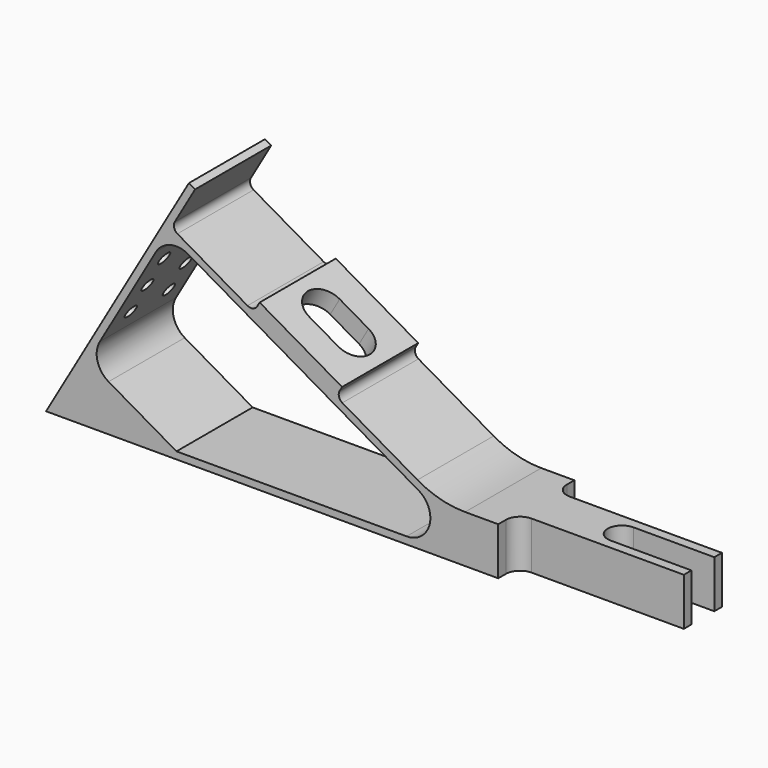
from build123d import *

# Parameters (mm, degrees)
F1_DEPTH  = 20
F3_DEPTH  = 4
F5_DEPTH  = 10.001
F6_R      = 4.25
F6_R_2    = 1.395
F7_DEPTH  = 20.3525969889
F8_R      = 5.5
F9_DEPTH  = 2
F10_DEPTH = 10.001


with BuildPart() as f1:
    # F0 (on Front) → F1 (new body)
    with BuildSketch(Plane.XZ):
        with BuildLine():
            Line((-35, 51.9615242271), (-65, 0))
            Line((-65, 0), (65, 0))
            Line((65, 0), (65, 10))
            Line((65, 10), (23.0384757729, 10))
            ThreePointArc((23.0384757729, 10), (17.8620948709, 10.6814834742), (13.0384757729, 12.6794919243))
            Line((13.0384757729, 12.6794919243), (-2.7609076373, 21.8012701892))
            ThreePointArc((-2.7609076373, 21.8012701892), (-3.4597963767, 22.7120797272), (-3.3099457429, 23.8503082949))
            Line((-3.3099457429, 23.8503082949), (-2.8099457429, 24.7163336987))
            Line((-2.8099457429, 24.7163336987), (-20.1304538186, 34.7163336987))
            Line((-20.1304538186, 34.7163336987), (-20.6304538186, 33.8503082949))
            ThreePointArc((-20.6304538186, 33.8503082949), (-21.5412633567, 33.1514195555), (-22.6794919243, 33.3012701892))
            Line((-22.6794919243, 33.3012701892), (-37.4019237886, 41.8012701892))
            ThreePointArc((-37.4019237886, 41.8012701892), (-38.1008125281, 42.7120797272), (-37.9509618943, 43.8503082949))
            Line((-37.9509618943, 43.8503082949), (-33.7009618943, 51.2115242271))
            Line((-33.7009618943, 51.2115242271), (-35, 51.9615242271))
        make_face()
        with BuildLine():
            ThreePointArc((-51.8708348754, 9.7403810568), (-54.2004640068, 12.7764128502), (-53.7009618943, 16.5705080757))
            Line((-53.7009618943, 16.5705080757), (-41.9509618943, 36.9221050646))
            ThreePointArc((-41.9509618943, 36.9221050646), (-38.9149301009, 39.2517341961), (-35.1208348754, 38.7522320835))
            Line((-35.1208348754, 38.7522320835), (13.2416697508, 10.8301270189))
            ThreePointArc((13.2416697508, 10.8301270189), (15.5712988822, 5.2059047745), (10.7416697508, 1.5))
            Line((10.7416697508, 1.5), (-37.5980762114, 1.5))
            Line((-37.5980762114, 1.5), (-51.8708348754, 9.7403810568))
        make_face(mode=Mode.SUBTRACT)
    extrude(amount=-F1_DEPTH)

    # F2 (on face) → F3 (cut, through all)
    with BuildSketch(Plane(origin=(10, 0, 17.3205080757), x_dir=(0.8660254038, 0, -0.5), z_dir=(0.5, 0, 0.8660254038))):
        with BuildLine():
            ThreePointArc((-28.291651246, 14), (-32.291651246, 10), (-28.291651246, 6))
            Line((-28.291651246, 6), (-21.291651246, 6))
            ThreePointArc((-21.291651246, 6), (-17.291651246, 10), (-21.291651246, 14))
            Line((-21.291651246, 14), (-28.291651246, 14))
        make_face()
    extrude(amount=-F3_DEPTH, mode=Mode.SUBTRACT)

    # F4 (on face) → F5 (cut, through all)
    with BuildSketch(Plane.XY.offset(10)):
        with BuildLine():
            Line((48, 7), (65, 7))
            Line((65, 7), (65, 13))
            Line((65, 13), (48, 13))
            ThreePointArc((48, 13), (45, 10), (48, 7))
        make_face()
    extrude(amount=-F5_DEPTH, mode=Mode.SUBTRACT)

    # F6 (on face) → F7 (cut, through all)
    with BuildSketch(Plane(origin=(-48.75, 0, 28.145825623), x_dir=(0, -1, 0), z_dir=(-0.8660254038, 0, 0.5))):
        with Locations((-10, -25)):
            Circle(F6_R)
        with Locations((-15, -7.5)):
            Circle(F6_R_2)
        with Locations((-15, -0.5)):
            Circle(F6_R_2)
        with Locations((-15, 6.5)):
            Circle(F6_R_2)
        with Locations((-5, -7.5)):
            Circle(F6_R_2)
        with Locations((-5, -0.5)):
            Circle(F6_R_2)
        with Locations((-5, 6.5)):
            Circle(F6_R_2)
    extrude(amount=-F7_DEPTH, mode=Mode.SUBTRACT)

    # F8 (on face) → F9 (cut)
    with BuildSketch(Plane(origin=(-48.75, 0, 28.145825623), x_dir=(0, -1, 0), z_dir=(-0.8660254038, 0, 0.5))):
        with Locations((-10, -25)):
            Circle(F8_R)
    extrude(amount=-F9_DEPTH, mode=Mode.SUBTRACT)

    # F4 (on face) → F10 (cut, through all)
    with BuildSketch(Plane.XY.offset(10)):
        with BuildLine():
            Line((33, 15), (65, 15))
            Line((65, 15), (65, 20))
            Line((65, 20), (30, 20))
            Line((30, 20), (30, 18))
            ThreePointArc((30, 18), (30.8786796564, 15.8786796564), (33, 15))
        make_face()
        with BuildLine():
            Line((65, 0), (65, 5))
            Line((65, 5), (33, 5))
            ThreePointArc((33, 5), (30.8786796564, 4.1213203436), (30, 2))
            Line((30, 2), (30, 0))
            Line((30, 0), (65, 0))
        make_face()
    extrude(amount=-F10_DEPTH, mode=Mode.SUBTRACT)


solid = f1.part
